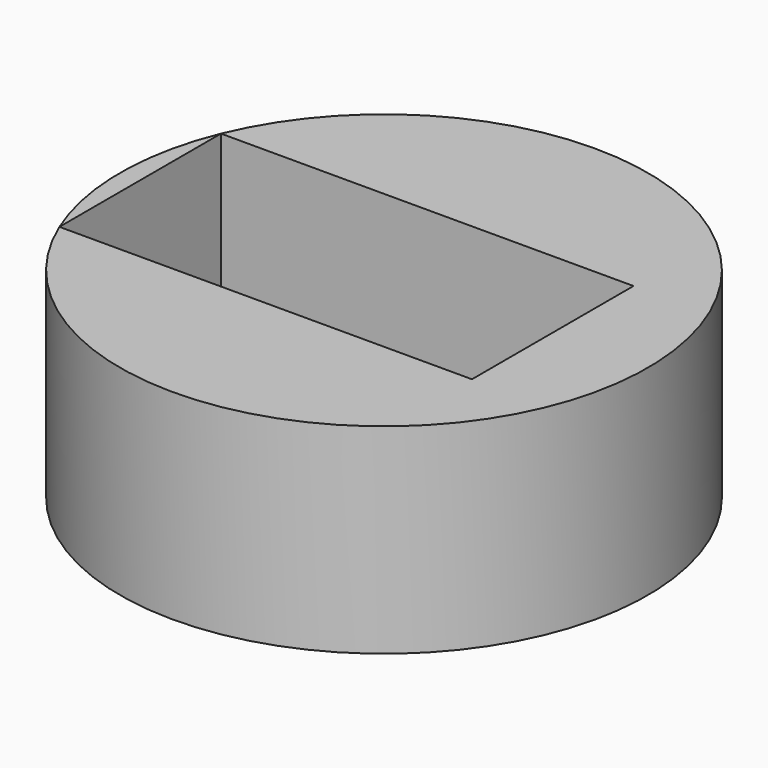
from build123d import *

# Parameters (mm, degrees)
F0_R     = 33.475843
F1_DEPTH = 25.4
F2_W     = 52.33563
F2_H     = 25.619592
F3_DEPTH = 37.846


with BuildPart() as f1:
    # F0 (on Top) → F1 (new body)
    with BuildSketch(Plane.XY):
        Circle(F0_R)
    extrude(amount=F1_DEPTH)

    # F2 (on face) → F3 (cut)
    with BuildSketch(Plane.XY.offset(25.4)):
        with Locations((-4.760185, 0)):
            Rectangle(F2_W, F2_H)
    extrude(amount=-F3_DEPTH, mode=Mode.SUBTRACT)


solid = f1.part
